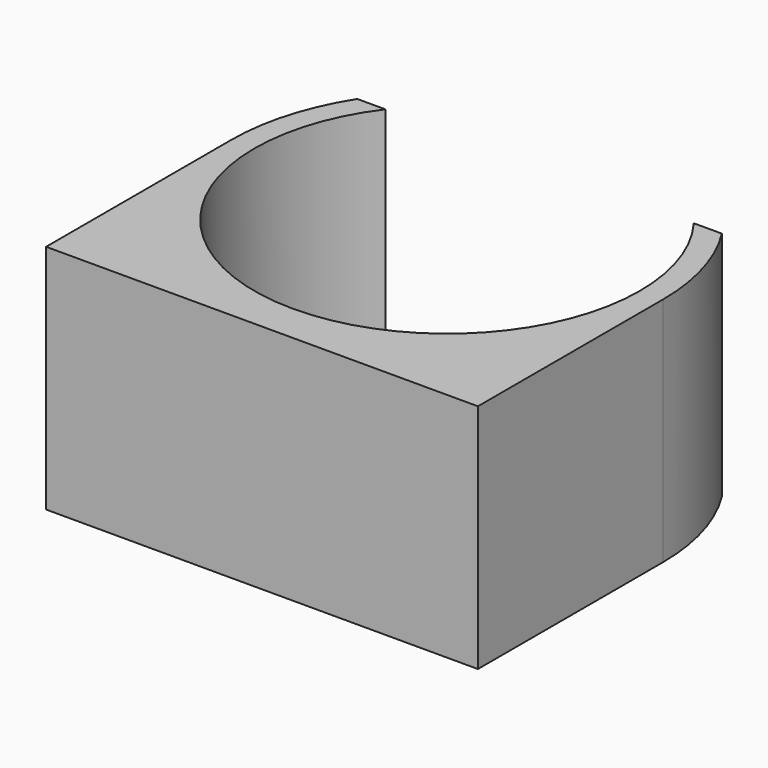
from build123d import *

# Parameters (mm, degrees)
F1_DEPTH = 15


with BuildPart() as f1:
    # F0 (on Top) → F1 (new body)
    with BuildSketch(Plane.XY):
        with BuildLine():
            ThreePointArc((24, 22.5), (14, 2.5), (4, 22.5))
            Line((4, 22.5), (2.17841, 22.5))
            ThreePointArc((2.17841, 22.5), (0.555628, 18.90498), (0, 15))
            Line((0, 15), (0, 0))
            Line((0, 0), (28, 0))
            Line((28, 0), (28, 15))
            ThreePointArc((28, 15), (27.444372, 18.90498), (25.82159, 22.5))
            Line((25.82159, 22.5), (24, 22.5))
        make_face()
    extrude(amount=F1_DEPTH)


solid = f1.part
